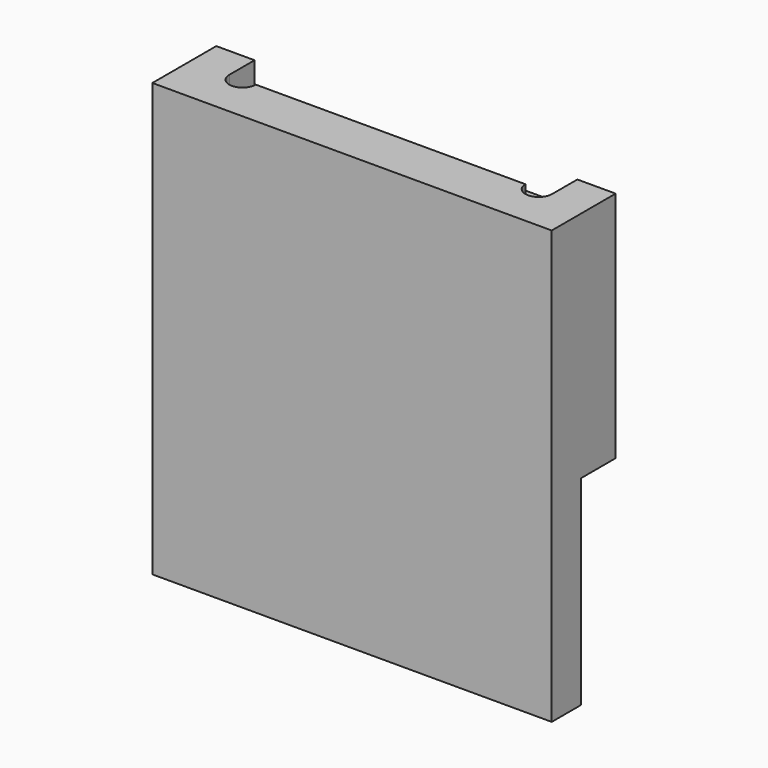
from build123d import *

# Parameters (mm, degrees)
F0_W      = 120
F0_H      = 24
F1_DEPTH  = 130
F2_W      = 97
F2_H      = 9.5
F3_DEPTH  = 8
F5_DEPTH  = 8
F7_DEPTH  = 120.001
F8_W      = 25
F8_H      = 3
F9_DEPTH  = 13
F11_DEPTH = 6.2


with BuildPart() as f1:
    # F0 (on Top) → F1 (new body)
    with BuildSketch(Plane.XY):
        Rectangle(F0_W, F0_H)
    extrude(amount=F1_DEPTH)

    # F2 (on face) → F3 (cut)
    with BuildSketch(Plane.XY.offset(130)):
        with Locations((0, 7.25)):
            Rectangle(F2_W, F2_H)
    extrude(amount=-F3_DEPTH, mode=Mode.SUBTRACT)

    # F4 (on face) → F5 (cut, through all)
    with BuildSketch(Plane.XY.offset(130)):
        with BuildLine():
            Line((-40.5, 2.5), (-48.5, 2.5))
            ThreePointArc((-48.5, 2.5), (-44.5, -1.5), (-40.5, 2.5))
        make_face()
        with BuildLine():
            ThreePointArc((40.5, 2.5), (44.5, -1.5), (48.5, 2.5))
            Line((48.5, 2.5), (40.5, 2.5))
        make_face()
    extrude(amount=-F5_DEPTH, mode=Mode.SUBTRACT)

    # F6 (on face) → F7 (cut, through all)
    with BuildSketch(Plane.YZ.offset(60)):
        Polygon((-1, 0), (12, 0), (12, 57), (5.8, 57), (5.8, 60), (-1, 60), align=None)
    extrude(amount=-F7_DEPTH, mode=Mode.SUBTRACT)

    # F8 (on face) → F9 (cut, through all)
    with BuildSketch(Plane(origin=(0, 12, 0), x_dir=(-1, 0, 0), z_dir=(0, 1, 0))):
        with Locations((-47.5, 58.5)):
            Rectangle(F8_W, F8_H)
        with Locations((47.5, 58.5)):
            Rectangle(F8_W, F8_H)
    extrude(amount=-F9_DEPTH, mode=Mode.SUBTRACT)

    # F10 (on face) → F11 (cut, through all)
    with BuildSketch(Plane(origin=(0, 12, 0), x_dir=(-1, 0, 0), z_dir=(0, 1, 0))):
        with BuildLine():
            Line((-43, 60), (-35, 60))
            ThreePointArc((-35, 60), (-39, 64), (-43, 60))
        make_face()
        with BuildLine():
            ThreePointArc((43, 60), (39, 64), (35, 60))
            Line((35, 60), (43, 60))
        make_face()
    extrude(amount=-F11_DEPTH, mode=Mode.SUBTRACT)


solid = f1.part
